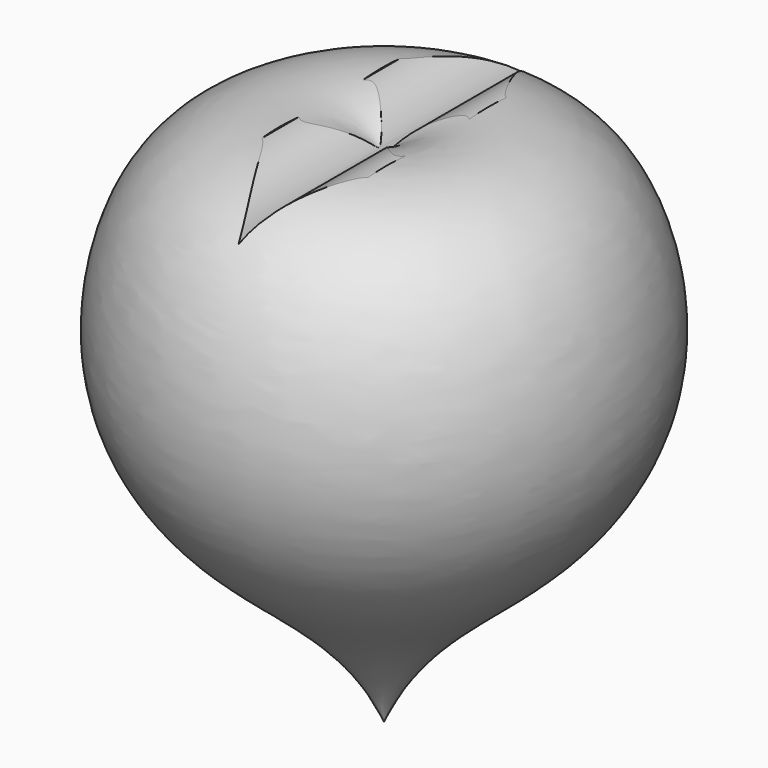
from build123d import *

# Parameters (mm, degrees)
F3_DEPTH = 150


with BuildPart() as f1:
    # F0 (on Front) → F1 (revolve)
    with BuildSketch(Plane.XZ):
        with BuildLine():
            Line((0, -50), (0, -3))
            add(Edge.make_bspline(
                [(0, -50), (-3.0953444075, -42.582526803), (-16.6679600943, -34.8423636136), (-23.9400420442, -20.1776527204), (-20.2725963294, -4.2006409153), (-9.8395469635, 1.2645230053), (-2.4574080947, -0.417535692), (0, -3)],
                knots=[0, 0, 0, 0, 0.2515916807, 0.4590886999, 0.6615651545, 0.8329356195, 1, 1, 1, 1], degree=3))
        make_face()
    revolve(axis=Axis((0, 0, -25), (0, 0, -1)))

    # F2 (on Front) → F3 (cut, symmetric)
    with BuildSketch(Plane.XZ):
        with BuildLine():
            ThreePointArc((-5, 0), (-1.9483610961, -0.961944423), (0, -3.5))
            ThreePointArc((0, -3.5), (1.9483610961, -0.961944423), (5, 0))
            Line((5, 0), (5, 2.5))
            Line((5, 2.5), (-5, 2.5))
            Line((-5, 2.5), (-5, 0))
        make_face()
    extrude(amount=F3_DEPTH, both=True, mode=Mode.SUBTRACT)


solid = f1.part
